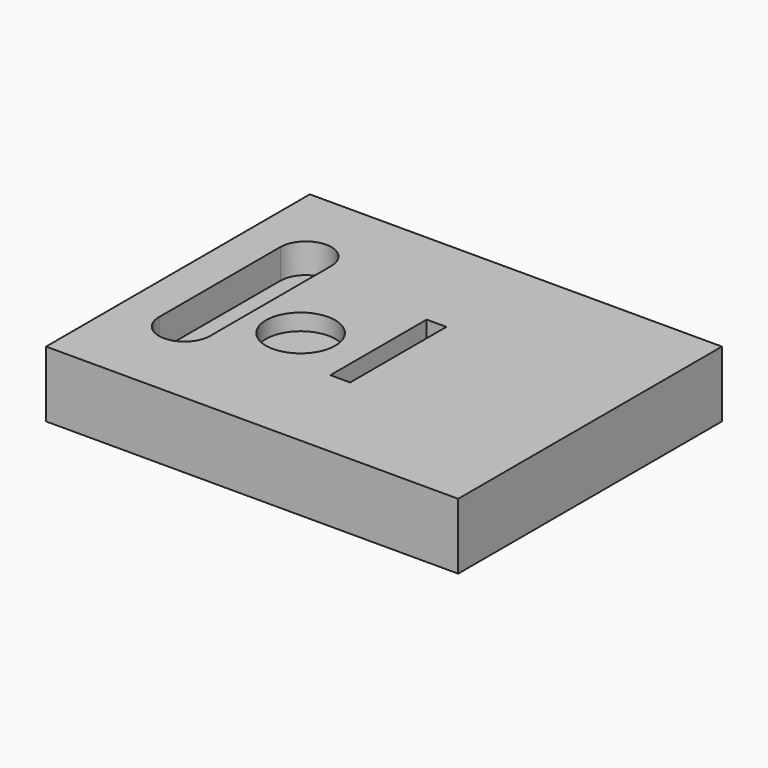
from build123d import *

# Parameters (mm, degrees)
F0_W      = 250
F0_H      = 200
F1_DEPTH  = 40
F3_DEPTH  = 18
F4_R      = 21
F5_DEPTH  = 10
F6_W      = 12
F6_H      = 73
F7_DEPTH  = 25
F8_W      = 155
F8_H      = 15
F9_DEPTH  = 25
F9_FACE_W = 155
F9_FACE_H = 25
F10_DEPTH = 47


with BuildPart() as f1:
    # F0 (on Top) → F1 (new body)
    with BuildSketch(Plane.XY):
        with Locations((-49.009792, 13.782904)):
            Rectangle(F0_W, F0_H)
    extrude(amount=F1_DEPTH)

    # F2 (on face) → F3 (cut)
    with BuildSketch(Plane.XY.offset(40)):
        with BuildLine():
            ThreePointArc((-151.139951, -29.209269), (-135.639951, -44.709269), (-120.139951, -29.209269))
            Line((-120.139951, -29.209269), (-120.139951, 62.790731))
            ThreePointArc((-120.139951, 62.790731), (-135.639951, 78.290731), (-151.139951, 62.790731))
            Line((-151.139951, 62.790731), (-151.139951, -29.209269))
        make_face()
    extrude(amount=-F3_DEPTH, mode=Mode.SUBTRACT)

    # F4 (on face) → F5 (cut)
    with BuildSketch(Plane.XY.offset(40)):
        with Locations((-88.571906, 0)):
            Circle(F4_R)
    extrude(amount=-F5_DEPTH, mode=Mode.SUBTRACT)

    # F6 (on face) → F7 (cut)
    with BuildSketch(Plane.XY.offset(40)):
        with Locations((-44.527275, 11.491382)):
            Rectangle(F6_W, F6_H)
        with Locations((-44.527275, 11.491382)):
            Rectangle(F6_W, F6_H)
    extrude(amount=-F7_DEPTH, mode=Mode.SUBTRACT)

    # F8 (on face) → F9 (join)
    with BuildSketch(Plane.XY.offset(40)):
        with Locations((-47.150943, 102.282946)):
            Rectangle(F8_W, F8_H)
    extrude(amount=F9_DEPTH)

    # F9_face (on face) → F10 (cut)
    with BuildSketch(Plane(origin=(-47.150943, 94.782946, 52.5), x_dir=(1, 0, 0), z_dir=(0, -1, 0))):
        Rectangle(F9_FACE_W, F9_FACE_H)
    extrude(amount=-F10_DEPTH, mode=Mode.SUBTRACT)


solid = f1.part
